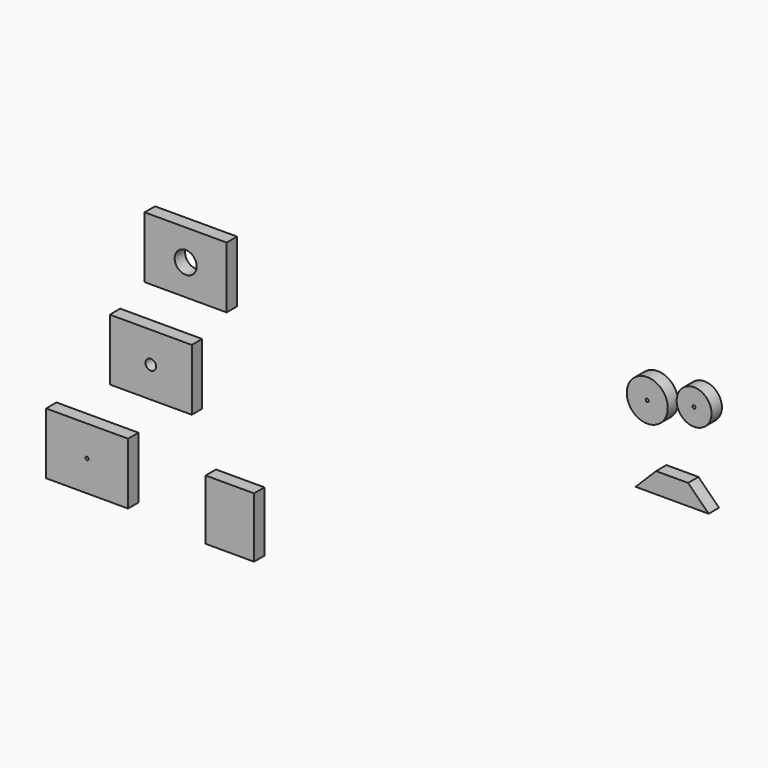
from build123d import *

# Parameters (mm, degrees)
F0_W     = 23.65
F0_H     = 29.35
F0_R     = 8.5
F0_R_2   = 0.75
F0_W_2   = 40
F0_H_2   = 30
F0_R_3   = 5.36
F0_R_4   = 2.59
F0_R_5   = 10
F1_DEPTH = 6.35


with BuildPart() as f1:
    # F0 (on Front) → F1 (new body)
    with BuildSketch(Plane.XZ):
        with Locations((-103.474769, -59.894982)):
            Rectangle(F0_W, F0_H)
        with Locations((123.004787, 61.669149)):
            Circle(F0_R)
        with Locations((123.004787, 61.669149)):
            Circle(F0_R_2, mode=Mode.SUBTRACT)
        with Locations((-125.026301, 43.135444)):
            Rectangle(F0_W_2, F0_H_2)
        with Locations((-125.026301, 43.135444)):
            Circle(F0_R_3, mode=Mode.SUBTRACT)
        with Locations((-142.047703, -6.347605)):
            Rectangle(F0_W_2, F0_H_2)
        with Locations((-142.047703, -6.347605)):
            Circle(F0_R_4, mode=Mode.SUBTRACT)
        with Locations((-173.111941, -56.733072)):
            Rectangle(F0_W_2, F0_H_2)
        with Locations((-173.111941, -56.733072)):
            Circle(F0_R_2, mode=Mode.SUBTRACT)
        with Locations((100.166097, 57.101402)):
            Circle(F0_R_5)
        with Locations((100.166097, 57.101402)):
            Circle(F0_R_2, mode=Mode.SUBTRACT)
        Polygon((94.463781, 18.128328), (130.093781, 18.128328), (120.093781, 28.128328), (104.463781, 28.128328), align=None)
    extrude(amount=F1_DEPTH)


solid = f1.part
